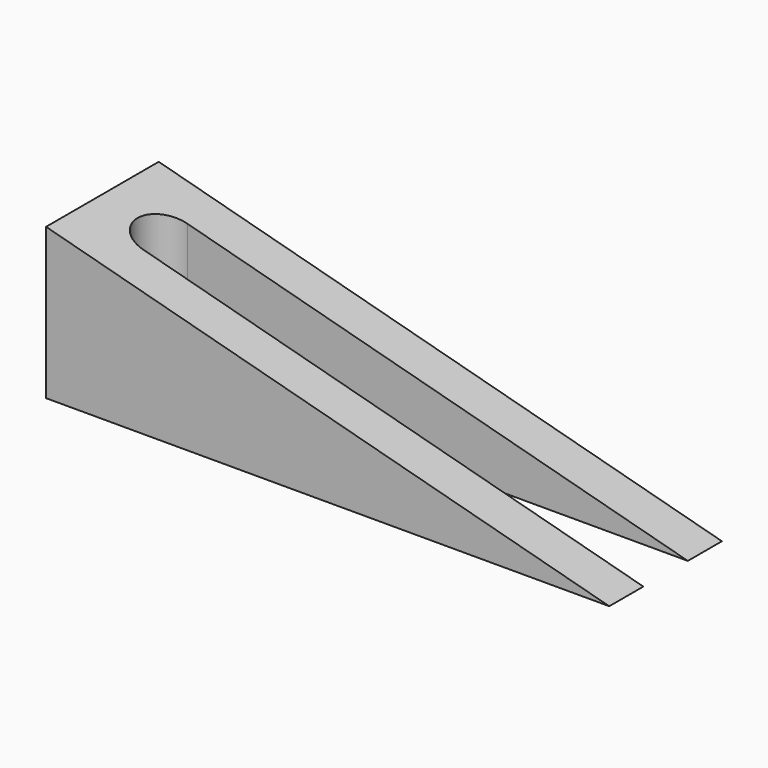
from build123d import *

# Parameters (mm, degrees)
F1_DEPTH = 25.4
F3_DEPTH = 25.5231605791


with BuildPart() as f1:
    # F0 (on Front) → F1 (new body)
    with BuildSketch(Plane.XZ):
        Polygon((0, 27.223637951), (0, 0), (101.6, 0), align=None)
    extrude(amount=F1_DEPTH)

    # F2 (on face) → F3 (cut, through all)
    with BuildSketch(Plane(origin=(0, 0, 0), x_dir=(1, 0, 0), z_dir=(0, 0, -1))):
        with BuildLine():
            ThreePointArc((11.3665, 7.6835), (14.9137011678, 9.1527988322), (16.383, 12.7))
            ThreePointArc((16.383, 12.7), (14.9137011678, 16.2472011678), (11.3665, 17.7165))
            ThreePointArc((11.3665, 17.7165), (6.35, 12.7), (11.3665, 7.6835))
        make_face()
        with BuildLine():
            ThreePointArc((11.3665, 17.7165), (14.9137011678, 16.2472011678), (16.383, 12.7))
            ThreePointArc((16.383, 12.7), (14.9137011678, 9.1527988322), (11.3665, 7.6835))
            Line((11.3665, 7.6835), (101.6, 7.6835))
            Line((101.6, 7.6835), (101.6, 17.7165))
            Line((101.6, 17.7165), (11.3665, 17.7165))
        make_face()
    extrude(amount=-F3_DEPTH, mode=Mode.SUBTRACT)


solid = f1.part
